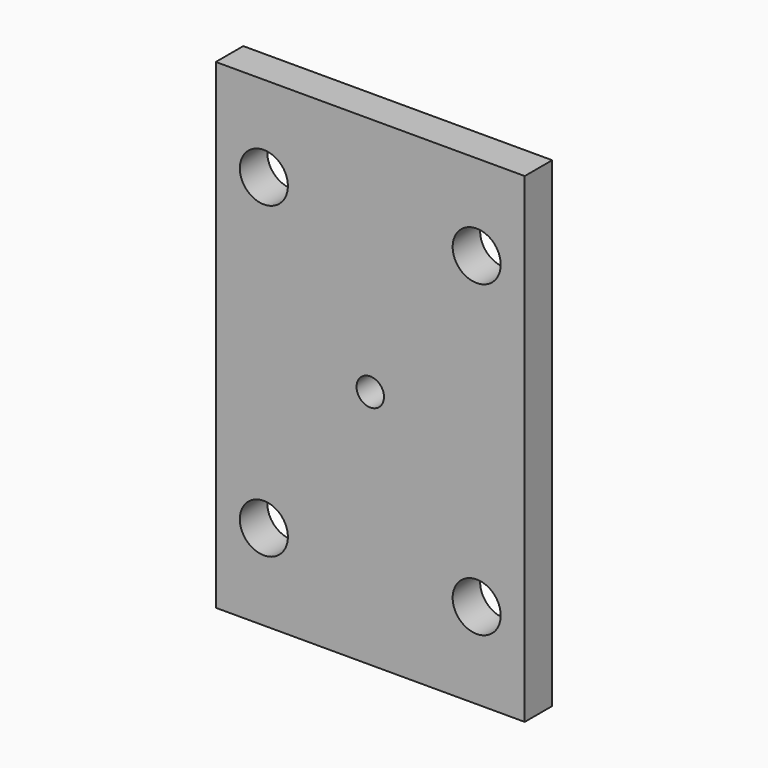
from build123d import *

# Parameters (mm, degrees)
F0_W     = 45
F0_H     = 70
F1_DEPTH = 5
F2_R     = 3.5
F2_R_2   = 2
F3_DEPTH = 5


with BuildPart() as f1:
    # F0 (on Front) → F1 (new body)
    with BuildSketch(Plane.XZ):
        Rectangle(F0_W, F0_H)
    extrude(amount=F1_DEPTH)

    # F2 (on face) → F3 (cut, through all)
    with BuildSketch(Plane.XZ.offset(5)):
        with Locations((-15.5, 22.5)):
            Circle(F2_R)
        with Locations((15.5, 22.5)):
            Circle(F2_R)
        with Locations((-15.5, -22.5)):
            Circle(F2_R)
        with Locations((15.5, -22.5)):
            Circle(F2_R)
        Circle(F2_R_2)
    extrude(amount=-F3_DEPTH, mode=Mode.SUBTRACT)


solid = f1.part
